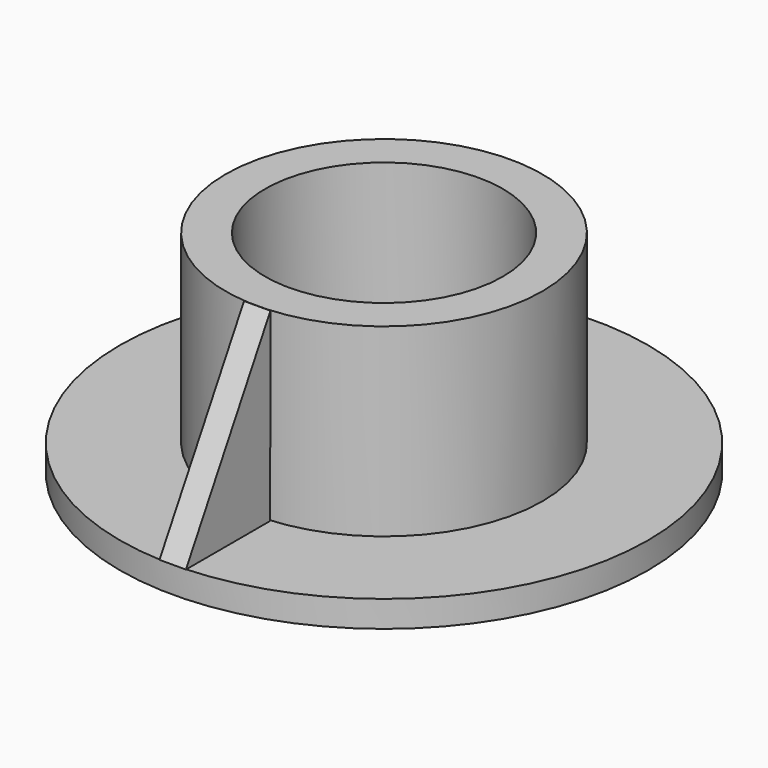
from build123d import *

# Parameters (mm, degrees)
F3_R     = 57.15
F4_DEPTH = 101.601
F6_DEPTH = 6.35


with BuildPart() as f2:
    # F0 (on Front) → F2 (revolve)
    with BuildSketch(Plane.XZ):
        Polygon((-127, 0), (0, 0), (0, 101.6), (-76.2, 101.6), (-76.2, 12.7), (-127, 12.7), align=None)
    revolve(axis=Axis((0, 0, 14.6887078881), (0, 0, 1)))

    # F3 (on face) → F4 (cut, through all)
    with BuildSketch(Plane.XY.offset(101.6)):
        Circle(F3_R)
    extrude(amount=-F4_DEPTH, mode=Mode.SUBTRACT)


with BuildPart() as f6:
    # F5 (on Right) → F6 (new body, symmetric)
    with BuildSketch(Plane.YZ):
        Polygon((-76.3652846217, 12.7), (-76.2, 101.6), (-127, 12.7), align=None)
    extrude(amount=F6_DEPTH, both=True)


solid = Compound([f2.part, f6.part])
